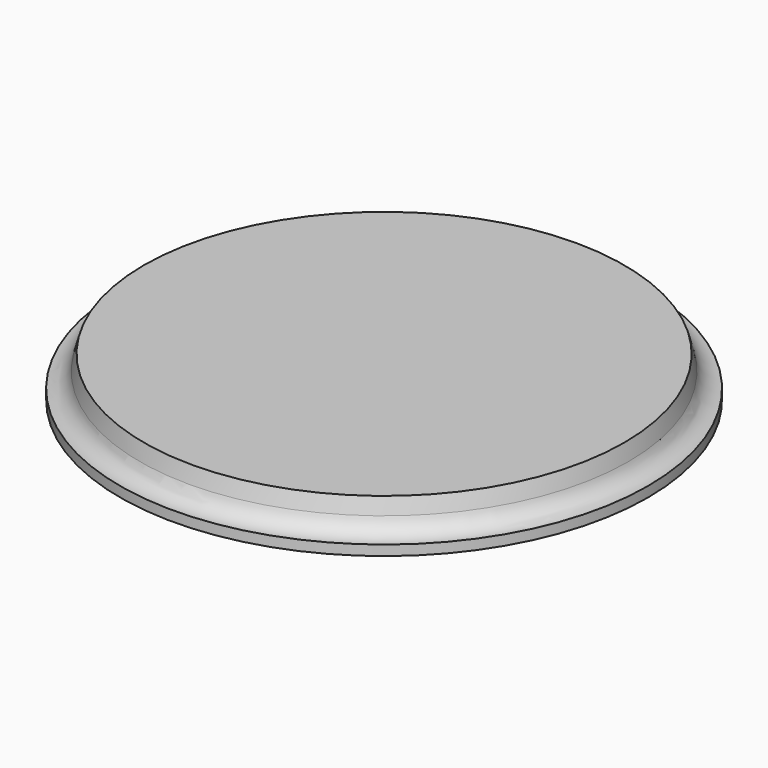
from build123d import *


with BuildPart() as f1:
    # F0 (on Front) → F1 (revolve)
    with BuildSketch(Plane.XZ):
        with BuildLine():
            Line((0, 25.4), (0, 0))
            Line((0, 0), (165.1, 0))
            Line((165.1, 0), (165.1, 6.35))
            ThreePointArc((165.1, 6.35), (157.36873, 8.974413), (152.832742, 15.762998))
            Line((152.832742, 15.762998), (150.250515, 25.4))
            Line((150.250515, 25.4), (0, 25.4))
        make_face()
    revolve(axis=Axis((0, 0, 62.419255), (0, 0, 1)))


solid = f1.part
